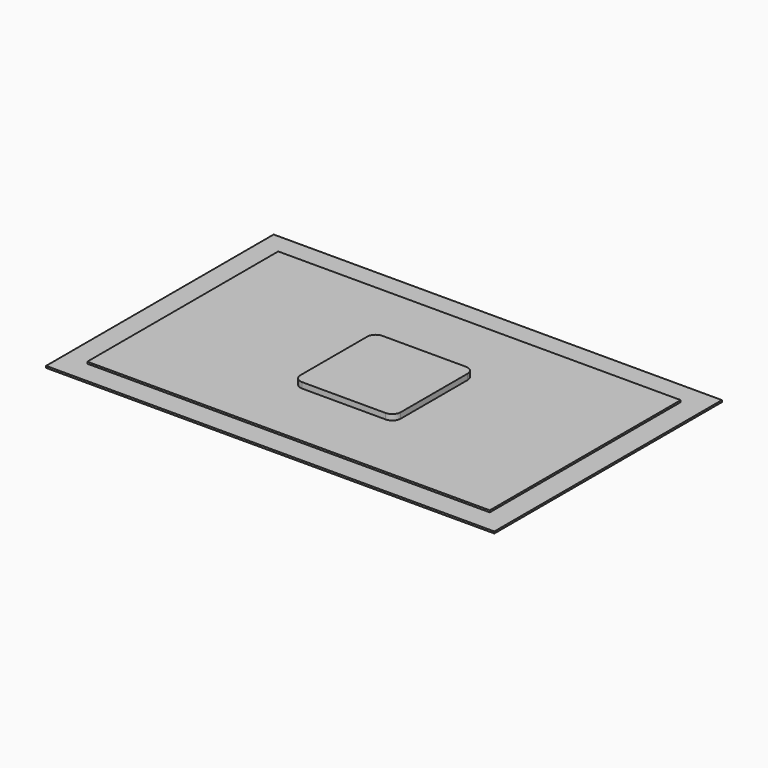
from build123d import *

# Parameters (mm, degrees)
F0_W     = 26.82
F0_H     = 17.02
F1_DEPTH = 0.11
F2_W     = 24.08
F2_H     = 14.28
F3_DEPTH = 0.11
F5_DEPTH = 0.34


with BuildPart() as f1:
    # F0 (on Top) → F1 (new body)
    with BuildSketch(Plane.XY):
        with Locations((1.121439, -2.320423)):
            Rectangle(F0_W, F0_H)
    extrude(amount=F1_DEPTH)

    # F2 (on face) → F3 (join)
    with BuildSketch(Plane.XY.offset(0.11)):
        with Locations((1.121439, -2.320423)):
            Rectangle(F2_W, F2_H)
    extrude(amount=F3_DEPTH)

    # F4 (on face) → F5 (join)
    with BuildSketch(Plane.XY.offset(0.22)):
        with BuildLine():
            Line((3.621439, 0.679577), (-1.378561, 0.679577))
            ThreePointArc((-1.378561, 0.679577), (-1.732114, 0.53313), (-1.878561, 0.179577))
            Line((-1.878561, 0.179577), (-1.878561, -4.820423))
            ThreePointArc((-1.878561, -4.820423), (-1.732114, -5.173977), (-1.378561, -5.320423))
            Line((-1.378561, -5.320423), (3.621439, -5.320423))
            ThreePointArc((3.621439, -5.320423), (3.974992, -5.173977), (4.121439, -4.820423))
            Line((4.121439, -4.820423), (4.121439, 0.179577))
            ThreePointArc((4.121439, 0.179577), (3.974992, 0.53313), (3.621439, 0.679577))
        make_face()
    extrude(amount=F5_DEPTH)


solid = f1.part
